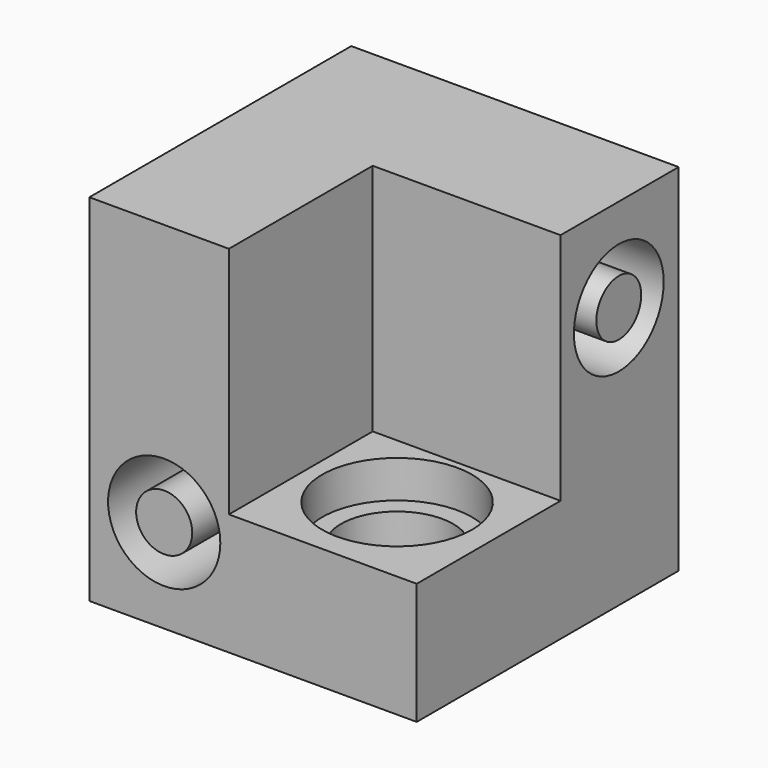
from build123d import *

# Parameters (mm, degrees)
F0_R          = 6
F0_R_2        = 3
F1_DEPTH      = 17.5
F1_DEPTH_BACK = 17.5
F2_R          = 6
F2_R_2        = 3
F3_DEPTH      = 17.5
F3_DEPTH_BACK = 17.5
F5_W          = 35
F5_H          = 35
F9_DEPTH      = 38
F11_W         = 20.0814460665
F11_H         = 19.2192889936
F12_DEPTH     = 25


with BuildPart() as f1:
    # F0 (on Right) → F1 (new body, two sides)
    with BuildSketch(Plane.YZ) as f1_sk:
        with Locations((9.5, 0)):
            Circle(F0_R)
        with Locations((9.5, 0)):
            Circle(F0_R_2, mode=Mode.SUBTRACT)
    extrude(amount=-F1_DEPTH)
    extrude(f1_sk.sketch, amount=F1_DEPTH_BACK)


with BuildPart() as f3:
    # F2 (on Front) → F3 (new body, two sides)
    with BuildSketch(Plane.XZ) as f3_sk:
        with Locations((-9.5, -18)):
            Circle(F2_R)
        with Locations((-9.5, -18)):
            Circle(F2_R_2, mode=Mode.SUBTRACT)
    extrude(amount=-F3_DEPTH)
    extrude(f3_sk.sketch, amount=F3_DEPTH_BACK)


with BuildPart() as f8:
    # F7 (on plane+point) → F8 (revolve)
    with BuildSketch(Plane.XZ.offset(7)):
        Polygon((7, -15), (7, -28), (13, -28), (15, -28), (15, -25), (13, -25), (13, -19), (15, -19), (15, -15), align=None)
    revolve(axis=Axis((7, -7, -17.05239507), (0, 0, 1)))


with BuildPart() as f9:
    # F5 (on offset) → F9 (new body)
    with BuildSketch(Plane.XY.offset(-28)):
        Rectangle(F5_W, F5_H)
    extrude(amount=F9_DEPTH)

    # F10: cut F8
    add(f8.part, mode=Mode.SUBTRACT)

    # F11 (on face) → F12 (cut)
    with BuildSketch(Plane.XY.offset(10)):
        with Locations((7.4592769668, -7.8903555032)):
            Rectangle(F11_W, F11_H)
    extrude(amount=-F12_DEPTH, mode=Mode.SUBTRACT)

    # F13: cut F3, F1
    add(f3.part, mode=Mode.SUBTRACT)
    add(f1.part, mode=Mode.SUBTRACT)


solid = f9.part
